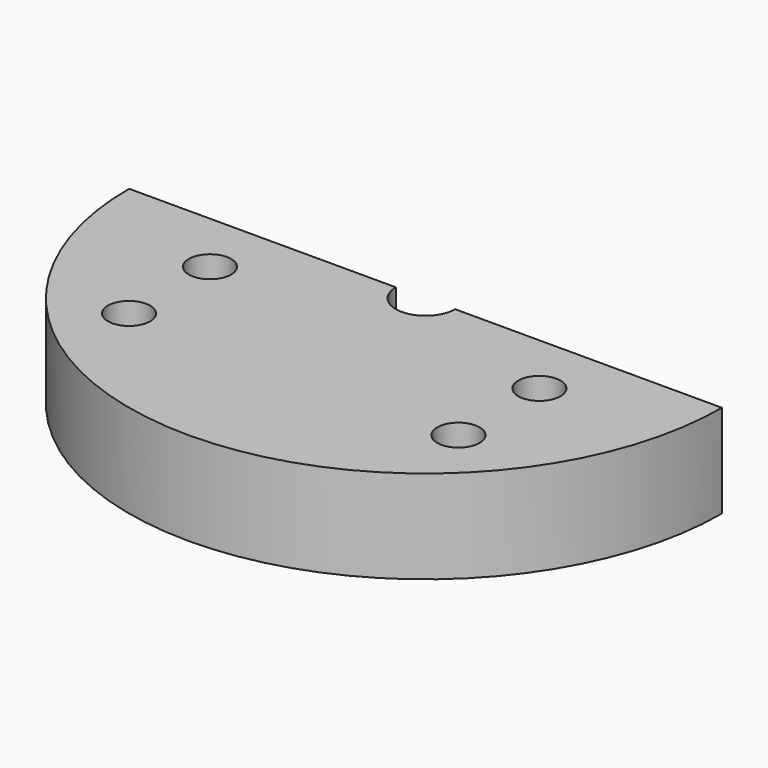
from build123d import *

# Parameters (mm, degrees)
PAD_DEPTH    = 22
SKETCH001_R  = 5
PAD001_DEPTH = 17
POCKET_DEPTH = 17


with BuildPart() as part:
    # Sketch → Pad (new body)
    with BuildSketch(Plane.XY):
        with BuildLine():
            ThreePointArc((-7, 0), (0, -7), (7, 0))
            Line((7, 0), (70, 0))
            ThreePointArc((-70, 0), (0, -70), (70, 0))
            Line((-70, 0), (-7, 0))
        make_face()
    extrude(amount=PAD_DEPTH)

    # Sketch001 (on Face6 of Pad) → Pad001 (join)
    with BuildSketch(Plane.XY.offset(22)):
        with Locations((-38.890873, -38.890873)):
            Circle(SKETCH001_R)
        with Locations((38.890873, -38.890873)):
            Circle(SKETCH001_R)
        with Locations((-38.8909, -15)):
            Circle(SKETCH001_R)
        with Locations((38.8909, -15)):
            Circle(SKETCH001_R)
    extrude(amount=-PAD001_DEPTH)

    # Sketch001 (on Face6 of Pad) → Pocket (cut)
    with BuildSketch(Plane.XY.offset(22)):
        with Locations((-38.890873, -38.890873)):
            Circle(SKETCH001_R)
        with Locations((38.890873, -38.890873)):
            Circle(SKETCH001_R)
        with Locations((-38.8909, -15)):
            Circle(SKETCH001_R)
        with Locations((38.8909, -15)):
            Circle(SKETCH001_R)
    extrude(amount=-POCKET_DEPTH, mode=Mode.SUBTRACT)


solid = part.part
